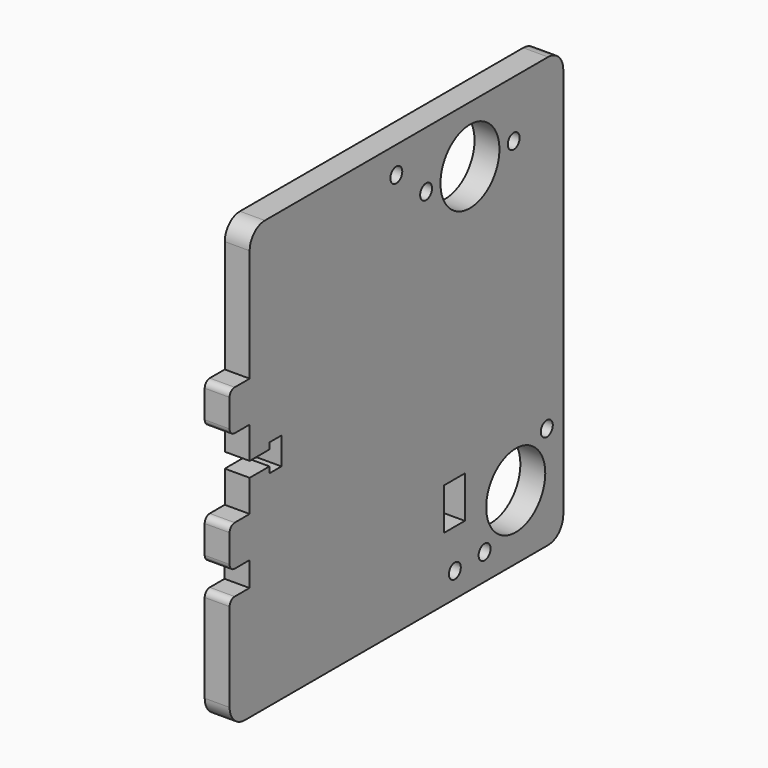
from build123d import *

# Parameters (mm, degrees)
F0_R     = 1.496682
F0_W     = 5.246993
F0_H     = 8.403182
F0_R_2   = 1.502637
F0_R_3   = 7.419122
F0_R_4   = 1.50217
F0_R_5   = 1.497826
F0_R_6   = 1.495866
F0_R_7   = 7.407283
F0_R_8   = 1.495199
F1_DEPTH = 5.0038


with BuildPart() as f1:
    # F0 (on Right) → F1 (new body)
    with BuildSketch(Plane.YZ):
        with BuildLine():
            ThreePointArc((26.002148, 39.583533), (24.886225, 42.27761), (22.192148, 43.393533))
            Line((22.192148, 43.393533), (-48.969212, 43.393533))
            ThreePointArc((-48.969212, 43.393533), (-51.663225, 42.277674), (-52.779212, 39.583715))
            Line((-52.779212, 39.583715), (-52.780295, 16.96425))
            Line((-52.780295, 16.96425), (-56.547852, 16.96425))
            ThreePointArc((-56.547852, 16.96425), (-57.445878, 16.592276), (-57.817852, 15.69425))
            Line((-57.817852, 15.69425), (-57.817852, 10.11156))
            ThreePointArc((-57.817852, 10.11156), (-57.445878, 9.213534), (-56.547852, 8.84156))
            Line((-56.547852, 8.84156), (-52.783472, 8.84156))
            Line((-52.783472, 8.84156), (-52.783472, 2.413221))
            Line((-52.783472, 2.413221), (-47.806354, 2.413221))
            Line((-47.806354, 2.413221), (-47.806354, 3.672259))
            Line((-47.806354, 3.672259), (-44.797333, 3.672259))
            Line((-44.797333, 3.672259), (-44.797333, -1.80733))
            Line((-44.797333, -1.80733), (-47.806354, -1.80733))
            Line((-47.806354, -1.80733), (-47.806354, -0.579965))
            Line((-47.806354, -0.579965), (-52.783472, -0.579965))
            Line((-52.783472, -0.579965), (-52.783472, -6.978519))
            Line((-52.783472, -6.978519), (-56.547852, -6.978519))
            ThreePointArc((-56.547852, -6.978519), (-57.445878, -7.350493), (-57.817852, -8.248519))
            Line((-57.817852, -8.248519), (-57.817852, -13.858365))
            ThreePointArc((-57.817852, -13.858365), (-57.445878, -14.756391), (-56.547852, -15.128365))
            Line((-56.547852, -15.128365), (-52.823355, -15.128365))
            Line((-52.823355, -15.128365), (-52.823355, -20.055671))
            Line((-52.823355, -20.055671), (-56.547852, -20.055671))
            ThreePointArc((-56.547852, -20.055671), (-57.445878, -20.427646), (-57.817852, -21.325671))
            Line((-57.817852, -21.325671), (-57.817852, -39.156467))
            ThreePointArc((-57.817852, -39.156467), (-56.701929, -41.850544), (-54.007852, -42.966467))
            Line((-54.007852, -42.966467), (22.192148, -42.966467))
            ThreePointArc((22.192148, -42.966467), (24.886225, -41.850544), (26.002148, -39.156467))
            Line((26.002148, -39.156467), (26.002148, 39.583533))
        make_face()
        with Locations((-1.237392, -37.996951)):
            Circle(F0_R, mode=Mode.SUBTRACT)
        with Locations((-1.358906, -25.962943)):
            Rectangle(F0_W, F0_H, mode=Mode.SUBTRACT)
        with Locations((6.237176, -37.701346)):
            Circle(F0_R_2, mode=Mode.SUBTRACT)
        with Locations((14.057356, -29.971829)):
            Circle(F0_R_3, mode=Mode.SUBTRACT)
        with Locations((21.865347, -22.209868)):
            Circle(F0_R_4, mode=Mode.SUBTRACT)
        with Locations((-15.942187, 38.029493)):
            Circle(F0_R_5, mode=Mode.SUBTRACT)
        with Locations((-8.460167, 32.026364)):
            Circle(F0_R_6, mode=Mode.SUBTRACT)
        with Locations((2.551726, 32.02758)):
            Circle(F0_R_7, mode=Mode.SUBTRACT)
        with Locations((13.543643, 32.025907)):
            Circle(F0_R_8, mode=Mode.SUBTRACT)
    extrude(amount=F1_DEPTH)


solid = f1.part
